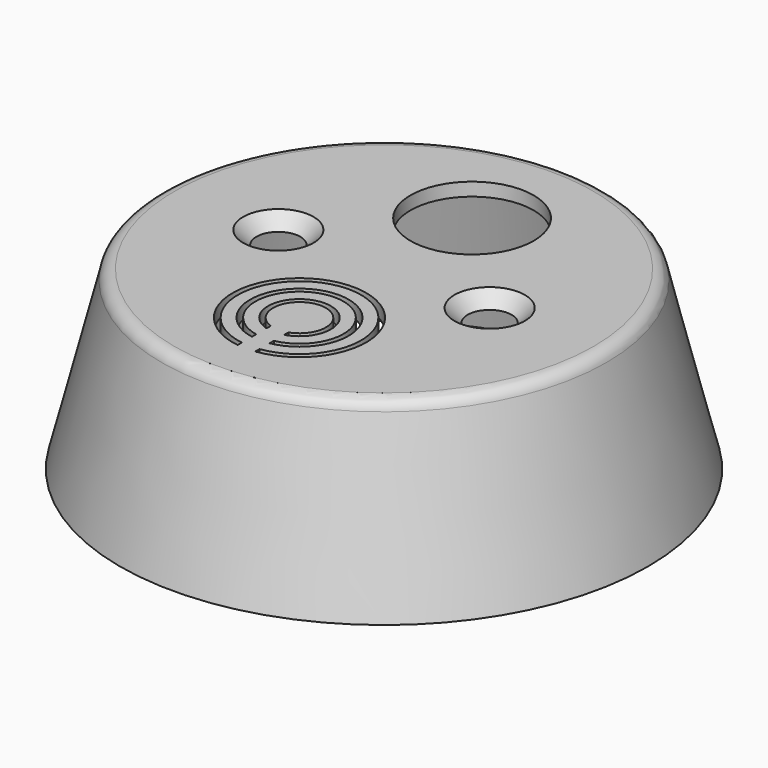
from build123d import *

# Parameters (mm, degrees)
F3_R           = 1.5
F4_T           = -1.5
F5_R           = 7
F6_DEPTH       = 20.001
F8_D           = 4
F8_CSINK_D     = 8
F8_CSINK_ANGLE = 90
F10_DEPTH      = 20.001


with BuildPart() as f2:
    # F0 (on Front) → F2 (revolve)
    with BuildSketch(Plane.XZ):
        Polygon((25, 20), (0, 20), (0, 0), (30, 0), align=None)
    revolve(axis=Axis((0, 0, 16.1236887798), (0, 0, -1)))

    # F3
    f3_edges = [f2.edges().sort_by_distance(p)[0] for p in [
        (-25, 0, 20),
    ]]
    fillet(f3_edges, radius=F3_R)

    # F4
    f4_openings = [f2.faces().sort_by_distance(p)[0] for p in [
        (0, 0, 0),
    ]]
    offset(amount=F4_T, openings=f4_openings, kind=Kind.INTERSECTION)

    # F5 (on face) → F6 (cut, through all)
    with BuildSketch(Plane.XY.offset(20)):
        with Locations((0, 12.5)):
            Circle(F5_R)
    extrude(amount=-F6_DEPTH, mode=Mode.SUBTRACT)

    # F8 (through all)
    with Locations(Plane.XY.offset(20)):
        with Locations((12, 0), (-12, 0)):
            CounterSinkHole(F8_D / 2, F8_CSINK_D / 2, counter_sink_angle=F8_CSINK_ANGLE)

    # F9 (on face) → F10 (cut, through all)
    with BuildSketch(Plane.XY.offset(20)):
        with BuildLine():
            ThreePointArc((-1, -14.8284271247), (0, -9), (1, -14.8284271247))
            Line((1, -14.8284271247), (1, -15.4284271247))
            ThreePointArc((1, -15.4284271247), (0, -8.42870996), (-1, -15.4284271247))
            Line((-1, -15.4284271247), (-1, -14.8284271247))
        make_face()
        with BuildLine():
            ThreePointArc((-1, -16.8989794856), (0, -7), (1, -16.8989794856))
            Line((1, -16.8989794856), (1, -17.4989794856))
            ThreePointArc((1, -17.4989794856), (0, -6.4108341067), (-1, -17.4989794856))
            Line((-1, -17.4989794856), (-1, -16.8989794856))
        make_face()
        with BuildLine():
            ThreePointArc((-1, -18.9282032303), (0, -5), (1, -18.9282032303))
            Line((1, -18.9282032303), (1, -19.5282032303))
            ThreePointArc((1, -19.5282032303), (0, -4.4056702813), (-1, -19.5282032303))
            Line((-1, -19.5282032303), (-1, -18.9282032303))
        make_face()
    extrude(amount=-F10_DEPTH, mode=Mode.SUBTRACT)


solid = f2.part
